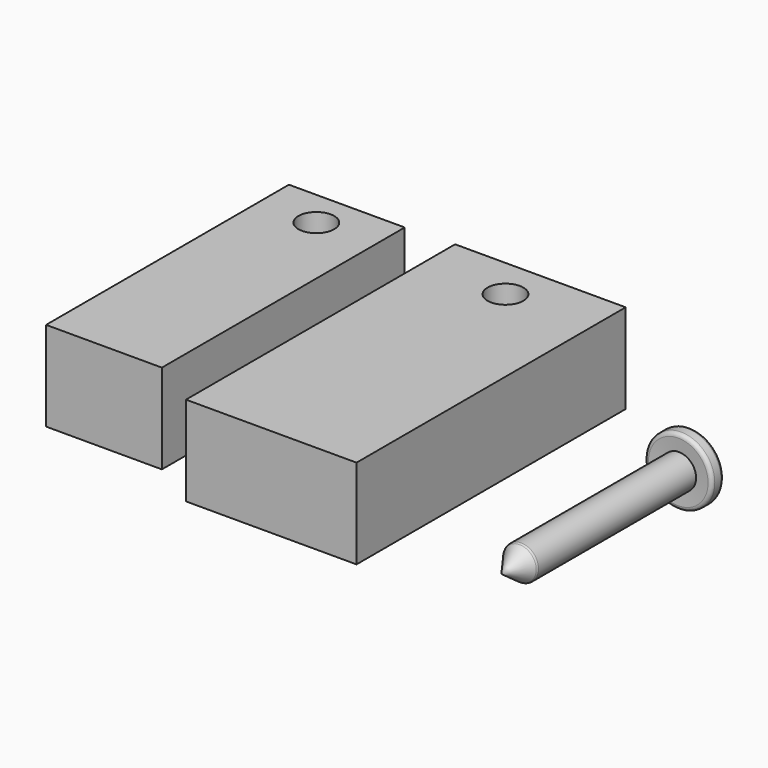
from build123d import *

# Parameters (mm, degrees)
F0_W     = 32.3096290231
F0_H     = 84.7036316991
F2_DEPTH = 25
F1_W     = 47.5912187248
F1_H     = 93.8725806773
F3_DEPTH = 25
F4_R     = 5
F5_DEPTH = 30
F6_R     = 5
F7_DEPTH = 30
F10_R    = 1


with BuildPart() as f2:
    # F0 (on Top) → F2 (new body)
    with BuildSketch(Plane.XY):
        with Locations((-48.0278320611, 20.8484455943)):
            Rectangle(F0_W, F0_H)
    extrude(amount=F2_DEPTH)

    # F4 (on face) → F5 (cut)
    with BuildSketch(Plane.XY.offset(25)):
        with Locations((-48.3458414674, 52.9655553401)):
            Circle(F4_R)
    extrude(amount=-F5_DEPTH, mode=Mode.SUBTRACT)


with BuildPart() as f3:
    # F1 (on Top) → F3 (new body)
    with BuildSketch(Plane.XY):
        with Locations((5.4577058181, 16.9188957661)):
            Rectangle(F1_W, F1_H)
    extrude(amount=F3_DEPTH)

    # F6 (on face) → F7 (cut)
    with BuildSketch(Plane.XY.offset(25)):
        with Locations((4.94201947, 52.3209422827)):
            Circle(F6_R)
    extrude(amount=-F7_DEPTH, mode=Mode.SUBTRACT)


with BuildPart() as f9:
    # F8 (on Top) → F9 (revolve)
    with BuildSketch(Plane.XY):
        with BuildLine():
            Line((64.0313774347, 53.3952973783), (61.7257888615, 53.3952973783))
            ThreePointArc((61.7257888615, 53.3952973783), (60.2613227674, 49.8597634724), (56.7257888615, 48.3952973783))
            Line((56.7257888615, 48.3952973783), (56.7257888615, -13.859141618))
            Line((56.7257888615, -13.859141618), (61.5231853937, -7.1981586516))
            Line((61.5231853937, -7.1981586516), (61.5231853937, 48.0905712957))
            Line((61.5231853937, 48.0905712957), (66.1035810235, 47.8086620569))
            Line((66.1035810235, 47.8086620569), (66.1035810235, 51.4501150073))
            Line((66.1035810235, 51.4501150073), (64.0313774347, 53.3952973783))
        make_face()
    revolve(axis=Axis((56.7257888615, 19.7680778801, 0), (0, 1, 0)))

    # F10
    f10_edges = [f9.edges().sort_by_distance(p)[0] for p in [
        (47.347997, 51.450115, 0),
        (49.4202, 53.395297, 0),
        (47.347997, 47.808662, 0),
        (51.928392, -7.198159, 0),
    ]]
    fillet(f10_edges, radius=F10_R)


solid = Compound([f2.part, f3.part, f9.part])
